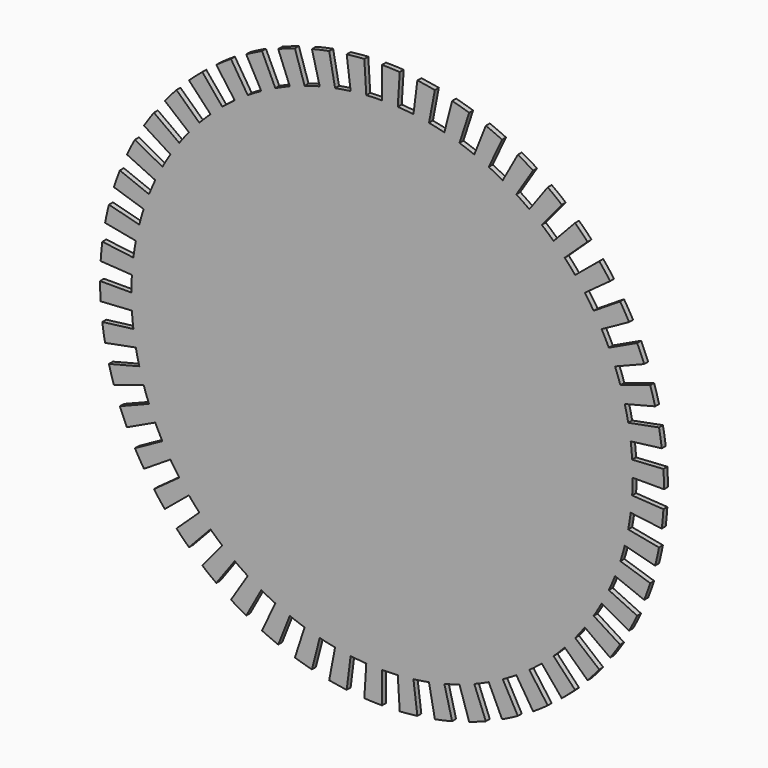
from build123d import *

# Parameters (mm, degrees)
F1_DEPTH = 1


with BuildPart() as f1:
    # F0 (on Front) → F1 (new body)
    with BuildSketch(Plane.XZ):
        with BuildLine():
            ThreePointArc((50.699758, -3.189758), (50.774933, -1.595667), (50.8, 0))
            ThreePointArc((50.8, 0), (50.774933, 1.595667), (50.699758, 3.189758))
            ThreePointArc((50.699758, 3.189758), (50.574548, 4.780702), (50.399427, 6.366928))
            ThreePointArc((50.399427, 6.366928), (50.174568, 7.946871), (49.900192, 9.518971))
            ThreePointArc((49.900192, 9.518971), (49.576572, 11.081677), (49.204025, 12.633446))
            ThreePointArc((49.204025, 12.633446), (48.782919, 14.172748), (48.313671, 15.698063))
            ThreePointArc((48.313671, 15.698063), (47.796743, 17.207886), (47.232645, 18.700727))
            ThreePointArc((47.232645, 18.700727), (46.621935, 20.175113), (45.965214, 21.629588))
            ThreePointArc((45.965214, 21.629588), (45.263131, 23.062717), (44.516379, 24.473087))
            ThreePointArc((44.516379, 24.473087), (43.725695, 25.859304), (42.891859, 27.220001))
            ThreePointArc((42.891859, 27.220001), (42.015693, 28.553836), (41.098063, 29.859491))
            ThreePointArc((41.098063, 29.859491), (40.139875, 31.135678), (39.142073, 32.381139))
            ThreePointArc((39.142073, 32.381139), (38.105642, 33.594643), (37.031606, 34.774993))
            ThreePointArc((37.031606, 34.774993), (35.921024, 35.921024), (34.774993, 37.031606))
            ThreePointArc((34.774993, 37.031606), (33.594643, 38.105642), (32.381139, 39.142073))
            ThreePointArc((32.381139, 39.142073), (31.135678, 40.139875), (29.859491, 41.098063))
            ThreePointArc((29.859491, 41.098063), (28.553836, 42.015693), (27.220001, 42.891859))
            ThreePointArc((27.220001, 42.891859), (25.859304, 43.725695), (24.473087, 44.516379))
            ThreePointArc((24.473087, 44.516379), (23.062717, 45.263131), (21.629588, 45.965214))
            ThreePointArc((21.629588, 45.965214), (20.175113, 46.621935), (18.700727, 47.232645))
            ThreePointArc((18.700727, 47.232645), (17.207886, 47.796743), (15.698063, 48.313671))
            ThreePointArc((15.698063, 48.313671), (14.172748, 48.782919), (12.633446, 49.204025))
            ThreePointArc((12.633446, 49.204025), (11.081677, 49.576572), (9.518971, 49.900192))
            ThreePointArc((9.518971, 49.900192), (7.946871, 50.174568), (6.366928, 50.399427))
            ThreePointArc((6.366928, 50.399427), (4.780702, 50.574548), (3.189758, 50.699758))
            ThreePointArc((3.189758, 50.699758), (1.595667, 50.774933), (0, 50.8))
            ThreePointArc((0, 50.8), (-1.595667, 50.774933), (-3.189758, 50.699758))
            ThreePointArc((-3.189758, 50.699758), (-4.780702, 50.574548), (-6.366928, 50.399427))
            ThreePointArc((-6.366928, 50.399427), (-7.946871, 50.174568), (-9.518971, 49.900192))
            ThreePointArc((-9.518971, 49.900192), (-11.081677, 49.576572), (-12.633446, 49.204025))
            ThreePointArc((-12.633446, 49.204025), (-14.172748, 48.782919), (-15.698063, 48.313671))
            ThreePointArc((-15.698063, 48.313671), (-17.207886, 47.796743), (-18.700727, 47.232645))
            ThreePointArc((-18.700727, 47.232645), (-20.175113, 46.621935), (-21.629588, 45.965214))
            ThreePointArc((-21.629588, 45.965214), (-23.062717, 45.263131), (-24.473087, 44.516379))
            ThreePointArc((-24.473087, 44.516379), (-25.859304, 43.725695), (-27.220001, 42.891859))
            ThreePointArc((-27.220001, 42.891859), (-28.553836, 42.015693), (-29.859491, 41.098063))
            ThreePointArc((-29.859491, 41.098063), (-31.135678, 40.139875), (-32.381139, 39.142073))
            ThreePointArc((-32.381139, 39.142073), (-33.594643, 38.105642), (-34.774993, 37.031606))
            ThreePointArc((-34.774993, 37.031606), (-35.921024, 35.921024), (-37.031606, 34.774993))
            ThreePointArc((-37.031606, 34.774993), (-38.105642, 33.594643), (-39.142073, 32.381139))
            ThreePointArc((-39.142073, 32.381139), (-40.139875, 31.135678), (-41.098063, 29.859491))
            ThreePointArc((-41.098063, 29.859491), (-42.015693, 28.553836), (-42.891859, 27.220001))
            ThreePointArc((-42.891859, 27.220001), (-43.725695, 25.859304), (-44.516379, 24.473087))
            ThreePointArc((-44.516379, 24.473087), (-45.263131, 23.062717), (-45.965214, 21.629588))
            ThreePointArc((-45.965214, 21.629588), (-46.621935, 20.175113), (-47.232645, 18.700727))
            ThreePointArc((-47.232645, 18.700727), (-47.796743, 17.207886), (-48.313671, 15.698063))
            ThreePointArc((-48.313671, 15.698063), (-48.782919, 14.172748), (-49.204025, 12.633446))
            ThreePointArc((-49.204025, 12.633446), (-49.576572, 11.081677), (-49.900192, 9.518971))
            ThreePointArc((-49.900192, 9.518971), (-50.174568, 7.946871), (-50.399427, 6.366928))
            ThreePointArc((-50.399427, 6.366928), (-50.574548, 4.780702), (-50.699758, 3.189758))
            ThreePointArc((-50.699758, 3.189758), (-50.774933, 1.595667), (-50.8, 0))
            ThreePointArc((-50.8, 0), (-50.774933, -1.595667), (-50.699758, -3.189758))
            ThreePointArc((-50.699758, -3.189758), (-50.574548, -4.780702), (-50.399427, -6.366928))
            ThreePointArc((-50.399427, -6.366928), (-50.174568, -7.946871), (-49.900192, -9.518971))
            ThreePointArc((-49.900192, -9.518971), (-49.576572, -11.081677), (-49.204025, -12.633446))
            ThreePointArc((-49.204025, -12.633446), (-48.782919, -14.172748), (-48.313671, -15.698063))
            ThreePointArc((-48.313671, -15.698063), (-47.796743, -17.207886), (-47.232645, -18.700727))
            ThreePointArc((-47.232645, -18.700727), (-46.621935, -20.175113), (-45.965214, -21.629588))
            ThreePointArc((-45.965214, -21.629588), (-45.263131, -23.062717), (-44.516379, -24.473087))
            ThreePointArc((-44.516379, -24.473087), (-43.725695, -25.859304), (-42.891859, -27.220001))
            ThreePointArc((-42.891859, -27.220001), (-42.015693, -28.553836), (-41.098063, -29.859491))
            ThreePointArc((-41.098063, -29.859491), (-40.139875, -31.135678), (-39.142073, -32.381139))
            ThreePointArc((-39.142073, -32.381139), (-38.105642, -33.594643), (-37.031606, -34.774993))
            ThreePointArc((-37.031606, -34.774993), (-35.921024, -35.921024), (-34.774993, -37.031606))
            ThreePointArc((-34.774993, -37.031606), (-33.594643, -38.105642), (-32.381139, -39.142073))
            ThreePointArc((-32.381139, -39.142073), (-31.135678, -40.139875), (-29.859491, -41.098063))
            ThreePointArc((-29.859491, -41.098063), (-28.553836, -42.015693), (-27.220001, -42.891859))
            ThreePointArc((-27.220001, -42.891859), (-25.859304, -43.725695), (-24.473087, -44.516379))
            ThreePointArc((-24.473087, -44.516379), (-23.062717, -45.263131), (-21.629588, -45.965214))
            ThreePointArc((-21.629588, -45.965214), (-20.175113, -46.621935), (-18.700727, -47.232645))
            ThreePointArc((-18.700727, -47.232645), (-17.207886, -47.796743), (-15.698063, -48.313671))
            ThreePointArc((-15.698063, -48.313671), (-14.172748, -48.782919), (-12.633446, -49.204025))
            ThreePointArc((-12.633446, -49.204025), (-11.081677, -49.576572), (-9.518971, -49.900192))
            ThreePointArc((-9.518971, -49.900192), (-7.946871, -50.174568), (-6.366928, -50.399427))
            ThreePointArc((-6.366928, -50.399427), (-4.780702, -50.574548), (-3.189758, -50.699758))
            ThreePointArc((-3.189758, -50.699758), (-1.595667, -50.774933), (0, -50.8))
            ThreePointArc((0, -50.8), (1.595667, -50.774933), (3.189758, -50.699758))
            ThreePointArc((3.189758, -50.699758), (4.780702, -50.574548), (6.366928, -50.399427))
            ThreePointArc((6.366928, -50.399427), (7.946871, -50.174568), (9.518971, -49.900192))
            ThreePointArc((9.518971, -49.900192), (11.081677, -49.576572), (12.633446, -49.204025))
            ThreePointArc((12.633446, -49.204025), (14.172748, -48.782919), (15.698063, -48.313671))
            ThreePointArc((15.698063, -48.313671), (17.207886, -47.796743), (18.700727, -47.232645))
            ThreePointArc((18.700727, -47.232645), (20.175113, -46.621935), (21.629588, -45.965214))
            ThreePointArc((21.629588, -45.965214), (23.062717, -45.263131), (24.473087, -44.516379))
            ThreePointArc((24.473087, -44.516379), (25.859304, -43.725695), (27.220001, -42.891859))
            ThreePointArc((27.220001, -42.891859), (28.553836, -42.015693), (29.859491, -41.098063))
            ThreePointArc((29.859491, -41.098063), (31.135678, -40.139875), (32.381139, -39.142073))
            ThreePointArc((32.381139, -39.142073), (33.594643, -38.105642), (34.774993, -37.031606))
            ThreePointArc((34.774993, -37.031606), (35.921024, -35.921024), (37.031606, -34.774993))
            ThreePointArc((37.031606, -34.774993), (38.105642, -33.594643), (39.142073, -32.381139))
            ThreePointArc((39.142073, -32.381139), (40.139875, -31.135678), (41.098063, -29.859491))
            ThreePointArc((41.098063, -29.859491), (42.015693, -28.553836), (42.891859, -27.220001))
            ThreePointArc((42.891859, -27.220001), (43.725695, -25.859304), (44.516379, -24.473087))
            ThreePointArc((44.516379, -24.473087), (45.263131, -23.062717), (45.965214, -21.629588))
            ThreePointArc((45.965214, -21.629588), (46.621935, -20.175113), (47.232645, -18.700727))
            ThreePointArc((47.232645, -18.700727), (47.796743, -17.207886), (48.313671, -15.698063))
            ThreePointArc((48.313671, -15.698063), (48.782919, -14.172748), (49.204025, -12.633446))
            ThreePointArc((49.204025, -12.633446), (49.576572, -11.081677), (49.900192, -9.518971))
            ThreePointArc((49.900192, -9.518971), (50.174568, -7.946871), (50.399427, -6.366928))
            ThreePointArc((50.399427, -6.366928), (50.574548, -4.780702), (50.699758, -3.189758))
        make_face()
        with BuildLine():
            ThreePointArc((50.699758, 3.189758), (50.774933, 1.595667), (50.8, 0))
            Line((50.8, 0), (57.15, 0))
            ThreePointArc((57.15, 0), (57.1218, 1.795125), (57.037228, 3.588478))
            Line((57.037228, 3.588478), (50.699758, 3.189758))
        make_face()
        with BuildLine():
            Line((57.037228, -3.588478), (50.699758, -3.189758))
            ThreePointArc((50.699758, -3.189758), (50.574548, -4.780702), (50.399427, -6.366928))
            Line((50.399427, -6.366928), (56.699355, -7.162794))
            ThreePointArc((56.699355, -7.162794), (56.896366, -5.37829), (57.037228, -3.588478))
        make_face()
        with BuildLine():
            ThreePointArc((49.900192, 9.518971), (50.174568, 7.946871), (50.399427, 6.366928))
            Line((50.399427, 6.366928), (56.699355, 7.162794))
            ThreePointArc((56.699355, 7.162794), (56.446389, 8.94023), (56.137716, 10.708842))
            Line((56.137716, 10.708842), (49.900192, 9.518971))
        make_face()
        with BuildLine():
            Line((56.137716, -10.708842), (49.900192, -9.518971))
            ThreePointArc((49.900192, -9.518971), (49.576572, -11.081677), (49.204025, -12.633446))
            Line((49.204025, -12.633446), (55.354528, -14.212627))
            ThreePointArc((55.354528, -14.212627), (55.773643, -12.466886), (56.137716, -10.708842))
        make_face()
        with BuildLine():
            ThreePointArc((48.313671, 15.698063), (48.782919, 14.172748), (49.204025, 12.633446))
            Line((49.204025, 12.633446), (55.354528, 14.212627))
            ThreePointArc((55.354528, 14.212627), (54.880784, 15.944342), (54.35288, 17.660321))
            Line((54.35288, 17.660321), (48.313671, 15.698063))
        make_face()
        with BuildLine():
            Line((54.35288, -17.660321), (48.313671, -15.698063))
            ThreePointArc((48.313671, -15.698063), (47.796743, -17.207886), (47.232645, -18.700727))
            Line((47.232645, -18.700727), (53.136726, -21.038318))
            ThreePointArc((53.136726, -21.038318), (53.771336, -19.358872), (54.35288, -17.660321))
        make_face()
        with BuildLine():
            ThreePointArc((45.965214, 21.629588), (46.621935, 20.175113), (47.232645, 18.700727))
            Line((47.232645, 18.700727), (53.136726, 21.038318))
            ThreePointArc((53.136726, 21.038318), (52.449677, 22.697002), (51.710866, 24.333287))
            Line((51.710866, 24.333287), (45.965214, 21.629588))
        make_face()
        with BuildLine():
            Line((51.710866, -24.333287), (45.965214, -21.629588))
            ThreePointArc((45.965214, -21.629588), (45.263131, -23.062717), (44.516379, -24.473087))
            Line((44.516379, -24.473087), (50.080927, -27.532222))
            ThreePointArc((50.080927, -27.532222), (50.921023, -25.945557), (51.710866, -24.333287))
        make_face()
        with BuildLine():
            ThreePointArc((42.891859, 27.220001), (43.725695, 25.859304), (44.516379, 24.473087))
            Line((44.516379, 24.473087), (50.080927, 27.532222))
            ThreePointArc((50.080927, 27.532222), (49.191407, 29.091717), (48.253341, 30.622501))
            Line((48.253341, 30.622501), (42.891859, 27.220001))
        make_face()
        with BuildLine():
            Line((48.253341, -30.622501), (42.891859, -27.220001))
            ThreePointArc((42.891859, -27.220001), (42.015693, -28.553836), (41.098063, -29.859491))
            Line((41.098063, -29.859491), (46.235321, -33.591927))
            ThreePointArc((46.235321, -33.591927), (47.267655, -32.123065), (48.253341, -30.622501))
        make_face()
        with BuildLine():
            ThreePointArc((39.142073, 32.381139), (40.139875, 31.135678), (41.098063, 29.859491))
            Line((41.098063, 29.859491), (46.235321, 33.591927))
            ThreePointArc((46.235321, 33.591927), (45.157359, 35.027638), (44.034832, 36.428781))
            Line((44.034832, 36.428781), (39.142073, 32.381139))
        make_face()
        with BuildLine():
            Line((44.034832, -36.428781), (39.142073, -32.381139))
            ThreePointArc((39.142073, -32.381139), (38.105642, -33.594643), (37.031606, -34.774993))
            Line((37.031606, -34.774993), (41.660557, -39.121867))
            ThreePointArc((41.660557, -39.121867), (42.868848, -37.793973), (44.034832, -36.428781))
        make_face()
        with BuildLine():
            ThreePointArc((34.774993, 37.031606), (35.921024, 35.921024), (37.031606, 34.774993))
            Line((37.031606, 34.774993), (41.660557, 39.121867))
            ThreePointArc((41.660557, 39.121867), (40.411153, 40.411153), (39.121867, 41.660557))
            Line((39.121867, 41.660557), (34.774993, 37.031606))
        make_face()
        with BuildLine():
            Line((39.121867, -41.660557), (34.774993, -37.031606))
            ThreePointArc((34.774993, -37.031606), (33.594643, -38.105642), (32.381139, -39.142073))
            Line((32.381139, -39.142073), (36.428781, -44.034832))
            ThreePointArc((36.428781, -44.034832), (37.793973, -42.868848), (39.121867, -41.660557))
        make_face()
        with BuildLine():
            ThreePointArc((29.859491, 41.098063), (31.135678, 40.139875), (32.381139, 39.142073))
            Line((32.381139, 39.142073), (36.428781, 44.034832))
            ThreePointArc((36.428781, 44.034832), (35.027638, 45.157359), (33.591927, 46.235321))
            Line((33.591927, 46.235321), (29.859491, 41.098063))
        make_face()
        with BuildLine():
            Line((33.591927, -46.235321), (29.859491, -41.098063))
            ThreePointArc((29.859491, -41.098063), (28.553836, -42.015693), (27.220001, -42.891859))
            Line((27.220001, -42.891859), (30.622501, -48.253341))
            ThreePointArc((30.622501, -48.253341), (32.123065, -47.267655), (33.591927, -46.235321))
        make_face()
        with BuildLine():
            ThreePointArc((24.473087, 44.516379), (25.859304, 43.725695), (27.220001, 42.891859))
            Line((27.220001, 42.891859), (30.622501, 48.253341))
            ThreePointArc((30.622501, 48.253341), (29.091717, 49.191407), (27.532222, 50.080927))
            Line((27.532222, 50.080927), (24.473087, 44.516379))
        make_face()
        with BuildLine():
            Line((27.532222, -50.080927), (24.473087, -44.516379))
            ThreePointArc((24.473087, -44.516379), (23.062717, -45.263131), (21.629588, -45.965214))
            Line((21.629588, -45.965214), (24.333287, -51.710866))
            ThreePointArc((24.333287, -51.710866), (25.945557, -50.921023), (27.532222, -50.080927))
        make_face()
        with BuildLine():
            ThreePointArc((18.700727, 47.232645), (20.175113, 46.621935), (21.629588, 45.965214))
            Line((21.629588, 45.965214), (24.333287, 51.710866))
            ThreePointArc((24.333287, 51.710866), (22.697002, 52.449677), (21.038318, 53.136726))
            Line((21.038318, 53.136726), (18.700727, 47.232645))
        make_face()
        with BuildLine():
            Line((21.038318, -53.136726), (18.700727, -47.232645))
            ThreePointArc((18.700727, -47.232645), (17.207886, -47.796743), (15.698063, -48.313671))
            Line((15.698063, -48.313671), (17.660321, -54.35288))
            ThreePointArc((17.660321, -54.35288), (19.358872, -53.771336), (21.038318, -53.136726))
        make_face()
        with BuildLine():
            ThreePointArc((12.633446, 49.204025), (14.172748, 48.782919), (15.698063, 48.313671))
            Line((15.698063, 48.313671), (17.660321, 54.35288))
            ThreePointArc((17.660321, 54.35288), (15.944342, 54.880784), (14.212627, 55.354528))
            Line((14.212627, 55.354528), (12.633446, 49.204025))
        make_face()
        with BuildLine():
            Line((14.212627, -55.354528), (12.633446, -49.204025))
            ThreePointArc((12.633446, -49.204025), (11.081677, -49.576572), (9.518971, -49.900192))
            Line((9.518971, -49.900192), (10.708842, -56.137716))
            ThreePointArc((10.708842, -56.137716), (12.466886, -55.773643), (14.212627, -55.354528))
        make_face()
        with BuildLine():
            ThreePointArc((6.366928, 50.399427), (7.946871, 50.174568), (9.518971, 49.900192))
            Line((9.518971, 49.900192), (10.708842, 56.137716))
            ThreePointArc((10.708842, 56.137716), (8.94023, 56.446389), (7.162794, 56.699355))
            Line((7.162794, 56.699355), (6.366928, 50.399427))
        make_face()
        with BuildLine():
            Line((7.162794, -56.699355), (6.366928, -50.399427))
            ThreePointArc((6.366928, -50.399427), (4.780702, -50.574548), (3.189758, -50.699758))
            Line((3.189758, -50.699758), (3.588478, -57.037228))
            ThreePointArc((3.588478, -57.037228), (5.37829, -56.896366), (7.162794, -56.699355))
        make_face()
        with BuildLine():
            ThreePointArc((0, 50.8), (1.595667, 50.774933), (3.189758, 50.699758))
            Line((3.189758, 50.699758), (3.588478, 57.037228))
            ThreePointArc((3.588478, 57.037228), (1.795125, 57.1218), (0, 57.15))
            Line((0, 57.15), (0, 50.8))
        make_face()
        with BuildLine():
            Line((0, -57.15), (0, -50.8))
            ThreePointArc((0, -50.8), (-1.595667, -50.774933), (-3.189758, -50.699758))
            Line((-3.189758, -50.699758), (-3.588478, -57.037228))
            ThreePointArc((-3.588478, -57.037228), (-1.795125, -57.1218), (0, -57.15))
        make_face()
        with BuildLine():
            ThreePointArc((-6.366928, 50.399427), (-4.780702, 50.574548), (-3.189758, 50.699758))
            Line((-3.189758, 50.699758), (-3.588478, 57.037228))
            ThreePointArc((-3.588478, 57.037228), (-5.37829, 56.896366), (-7.162794, 56.699355))
            Line((-7.162794, 56.699355), (-6.366928, 50.399427))
        make_face()
        with BuildLine():
            Line((-7.162794, -56.699355), (-6.366928, -50.399427))
            ThreePointArc((-6.366928, -50.399427), (-7.946871, -50.174568), (-9.518971, -49.900192))
            Line((-9.518971, -49.900192), (-10.708842, -56.137716))
            ThreePointArc((-10.708842, -56.137716), (-8.94023, -56.446389), (-7.162794, -56.699355))
        make_face()
        with BuildLine():
            ThreePointArc((-12.633446, 49.204025), (-11.081677, 49.576572), (-9.518971, 49.900192))
            Line((-9.518971, 49.900192), (-10.708842, 56.137716))
            ThreePointArc((-10.708842, 56.137716), (-12.466886, 55.773643), (-14.212627, 55.354528))
            Line((-14.212627, 55.354528), (-12.633446, 49.204025))
        make_face()
        with BuildLine():
            Line((-14.212627, -55.354528), (-12.633446, -49.204025))
            ThreePointArc((-12.633446, -49.204025), (-14.172748, -48.782919), (-15.698063, -48.313671))
            Line((-15.698063, -48.313671), (-17.660321, -54.35288))
            ThreePointArc((-17.660321, -54.35288), (-15.944342, -54.880784), (-14.212627, -55.354528))
        make_face()
        with BuildLine():
            ThreePointArc((-18.700727, 47.232645), (-17.207886, 47.796743), (-15.698063, 48.313671))
            Line((-15.698063, 48.313671), (-17.660321, 54.35288))
            ThreePointArc((-17.660321, 54.35288), (-19.358872, 53.771336), (-21.038318, 53.136726))
            Line((-21.038318, 53.136726), (-18.700727, 47.232645))
        make_face()
        with BuildLine():
            Line((-21.038318, -53.136726), (-18.700727, -47.232645))
            ThreePointArc((-18.700727, -47.232645), (-20.175113, -46.621935), (-21.629588, -45.965214))
            Line((-21.629588, -45.965214), (-24.333287, -51.710866))
            ThreePointArc((-24.333287, -51.710866), (-22.697002, -52.449677), (-21.038318, -53.136726))
        make_face()
        with BuildLine():
            ThreePointArc((-24.473087, 44.516379), (-23.062717, 45.263131), (-21.629588, 45.965214))
            Line((-21.629588, 45.965214), (-24.333287, 51.710866))
            ThreePointArc((-24.333287, 51.710866), (-25.945557, 50.921023), (-27.532222, 50.080927))
            Line((-27.532222, 50.080927), (-24.473087, 44.516379))
        make_face()
        with BuildLine():
            Line((-27.532222, -50.080927), (-24.473087, -44.516379))
            ThreePointArc((-24.473087, -44.516379), (-25.859304, -43.725695), (-27.220001, -42.891859))
            Line((-27.220001, -42.891859), (-30.622501, -48.253341))
            ThreePointArc((-30.622501, -48.253341), (-29.091717, -49.191407), (-27.532222, -50.080927))
        make_face()
        with BuildLine():
            ThreePointArc((-29.859491, 41.098063), (-28.553836, 42.015693), (-27.220001, 42.891859))
            Line((-27.220001, 42.891859), (-30.622501, 48.253341))
            ThreePointArc((-30.622501, 48.253341), (-32.123065, 47.267655), (-33.591927, 46.235321))
            Line((-33.591927, 46.235321), (-29.859491, 41.098063))
        make_face()
        with BuildLine():
            Line((-33.591927, -46.235321), (-29.859491, -41.098063))
            ThreePointArc((-29.859491, -41.098063), (-31.135678, -40.139875), (-32.381139, -39.142073))
            Line((-32.381139, -39.142073), (-36.428781, -44.034832))
            ThreePointArc((-36.428781, -44.034832), (-35.027638, -45.157359), (-33.591927, -46.235321))
        make_face()
        with BuildLine():
            ThreePointArc((-34.774993, 37.031606), (-33.594643, 38.105642), (-32.381139, 39.142073))
            Line((-32.381139, 39.142073), (-36.428781, 44.034832))
            ThreePointArc((-36.428781, 44.034832), (-37.793973, 42.868848), (-39.121867, 41.660557))
            Line((-39.121867, 41.660557), (-34.774993, 37.031606))
        make_face()
        with BuildLine():
            Line((-39.121867, -41.660557), (-34.774993, -37.031606))
            ThreePointArc((-34.774993, -37.031606), (-35.921024, -35.921024), (-37.031606, -34.774993))
            Line((-37.031606, -34.774993), (-41.660557, -39.121867))
            ThreePointArc((-41.660557, -39.121867), (-40.411153, -40.411153), (-39.121867, -41.660557))
        make_face()
        with BuildLine():
            ThreePointArc((-39.142073, 32.381139), (-38.105642, 33.594643), (-37.031606, 34.774993))
            Line((-37.031606, 34.774993), (-41.660557, 39.121867))
            ThreePointArc((-41.660557, 39.121867), (-42.868848, 37.793973), (-44.034832, 36.428781))
            Line((-44.034832, 36.428781), (-39.142073, 32.381139))
        make_face()
        with BuildLine():
            Line((-44.034832, -36.428781), (-39.142073, -32.381139))
            ThreePointArc((-39.142073, -32.381139), (-40.139875, -31.135678), (-41.098063, -29.859491))
            Line((-41.098063, -29.859491), (-46.235321, -33.591927))
            ThreePointArc((-46.235321, -33.591927), (-45.157359, -35.027638), (-44.034832, -36.428781))
        make_face()
        with BuildLine():
            ThreePointArc((-42.891859, 27.220001), (-42.015693, 28.553836), (-41.098063, 29.859491))
            Line((-41.098063, 29.859491), (-46.235321, 33.591927))
            ThreePointArc((-46.235321, 33.591927), (-47.267655, 32.123065), (-48.253341, 30.622501))
            Line((-48.253341, 30.622501), (-42.891859, 27.220001))
        make_face()
        with BuildLine():
            Line((-48.253341, -30.622501), (-42.891859, -27.220001))
            ThreePointArc((-42.891859, -27.220001), (-43.725695, -25.859304), (-44.516379, -24.473087))
            Line((-44.516379, -24.473087), (-50.080927, -27.532222))
            ThreePointArc((-50.080927, -27.532222), (-49.191407, -29.091717), (-48.253341, -30.622501))
        make_face()
        with BuildLine():
            ThreePointArc((-45.965214, 21.629588), (-45.263131, 23.062717), (-44.516379, 24.473087))
            Line((-44.516379, 24.473087), (-50.080927, 27.532222))
            ThreePointArc((-50.080927, 27.532222), (-50.921023, 25.945557), (-51.710866, 24.333287))
            Line((-51.710866, 24.333287), (-45.965214, 21.629588))
        make_face()
        with BuildLine():
            Line((-51.710866, -24.333287), (-45.965214, -21.629588))
            ThreePointArc((-45.965214, -21.629588), (-46.621935, -20.175113), (-47.232645, -18.700727))
            Line((-47.232645, -18.700727), (-53.136726, -21.038318))
            ThreePointArc((-53.136726, -21.038318), (-52.449677, -22.697002), (-51.710866, -24.333287))
        make_face()
        with BuildLine():
            ThreePointArc((-48.313671, 15.698063), (-47.796743, 17.207886), (-47.232645, 18.700727))
            Line((-47.232645, 18.700727), (-53.136726, 21.038318))
            ThreePointArc((-53.136726, 21.038318), (-53.771336, 19.358872), (-54.35288, 17.660321))
            Line((-54.35288, 17.660321), (-48.313671, 15.698063))
        make_face()
        with BuildLine():
            Line((-54.35288, -17.660321), (-48.313671, -15.698063))
            ThreePointArc((-48.313671, -15.698063), (-48.782919, -14.172748), (-49.204025, -12.633446))
            Line((-49.204025, -12.633446), (-55.354528, -14.212627))
            ThreePointArc((-55.354528, -14.212627), (-54.880784, -15.944342), (-54.35288, -17.660321))
        make_face()
        with BuildLine():
            ThreePointArc((-49.900192, 9.518971), (-49.576572, 11.081677), (-49.204025, 12.633446))
            Line((-49.204025, 12.633446), (-55.354528, 14.212627))
            ThreePointArc((-55.354528, 14.212627), (-55.773643, 12.466886), (-56.137716, 10.708842))
            Line((-56.137716, 10.708842), (-49.900192, 9.518971))
        make_face()
        with BuildLine():
            Line((-56.137716, -10.708842), (-49.900192, -9.518971))
            ThreePointArc((-49.900192, -9.518971), (-50.174568, -7.946871), (-50.399427, -6.366928))
            Line((-50.399427, -6.366928), (-56.699355, -7.162794))
            ThreePointArc((-56.699355, -7.162794), (-56.446389, -8.94023), (-56.137716, -10.708842))
        make_face()
        with BuildLine():
            ThreePointArc((-50.699758, 3.189758), (-50.574548, 4.780702), (-50.399427, 6.366928))
            Line((-50.399427, 6.366928), (-56.699355, 7.162794))
            ThreePointArc((-56.699355, 7.162794), (-56.896366, 5.37829), (-57.037228, 3.588478))
            Line((-57.037228, 3.588478), (-50.699758, 3.189758))
        make_face()
        with BuildLine():
            Line((-57.037228, -3.588478), (-50.699758, -3.189758))
            ThreePointArc((-50.699758, -3.189758), (-50.774933, -1.595667), (-50.8, 0))
            Line((-50.8, 0), (-57.15, 0))
            ThreePointArc((-57.15, 0), (-57.1218, -1.795125), (-57.037228, -3.588478))
        make_face()
    extrude(amount=F1_DEPTH)


solid = f1.part
